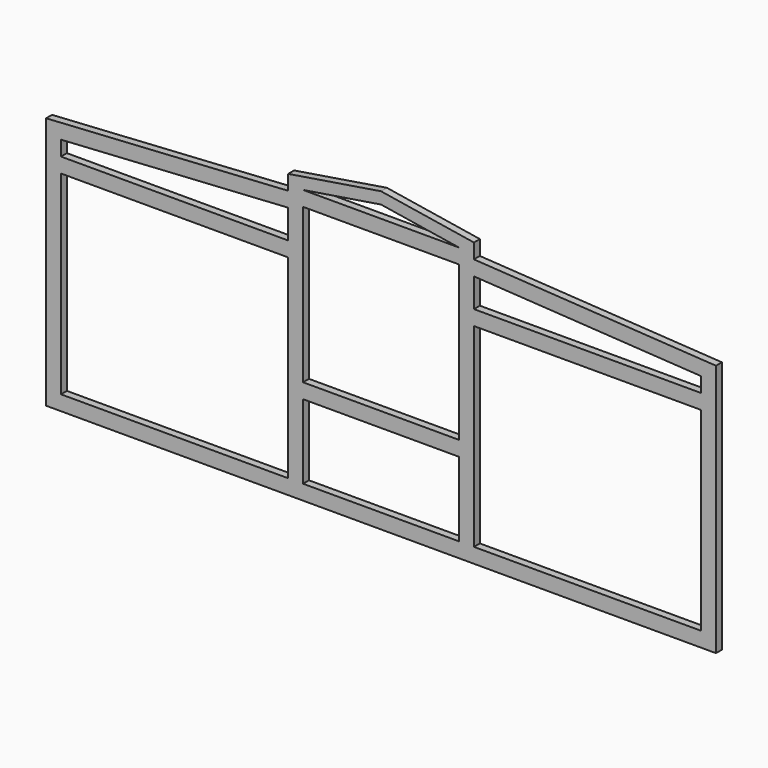
from build123d import *

# Parameters (mm, degrees)
F1_DEPTH = 50


with BuildPart() as f1:
    # F0 (on Front) → F1 (new body)
    with BuildSketch(Plane.XZ):
        Polygon((-2250, 0), (0, 0), (2250, 0), (2250, 1700), (623.932258, 1800), (623.932258, 1900), (0, 2000), (-623.932258, 1900), (-623.932258, 1800), (-2250, 1700), align=None)
        Polygon((-2150, 1405.960883), (-623.932258, 1405.960883), (-623.932258, 600), (-623.932258, 100), (-2150, 100), align=None, mode=Mode.SUBTRACT)
        Polygon((0, 600), (523.932258, 600), (523.932258, 100), (0, 100), (-523.932258, 100), (-523.932258, 600), align=None, mode=Mode.SUBTRACT)
        Polygon((2150, 1405.960883), (2150, 100), (623.932258, 100), (623.932258, 600), (623.932258, 1405.960883), align=None, mode=Mode.SUBTRACT)
        Polygon((-623.932258, 1505.960883), (-2150, 1505.960883), (-2150, 1605.960883), (-623.932258, 1699.811078), align=None, mode=Mode.SUBTRACT)
        Polygon((-523.932258, 1737.512805), (523.932258, 1737.512805), (523.932258, 700), (0, 700), (-523.932258, 700), align=None, mode=Mode.SUBTRACT)
        Polygon((-523.932258, 1837.512805), (0, 1921.485424), (523.932258, 1837.512805), align=None, mode=Mode.SUBTRACT)
        Polygon((623.932258, 1505.960883), (623.932258, 1699.811078), (2150, 1605.960883), (2150, 1505.960883), align=None, mode=Mode.SUBTRACT)
    extrude(amount=F1_DEPTH)


solid = f1.part
